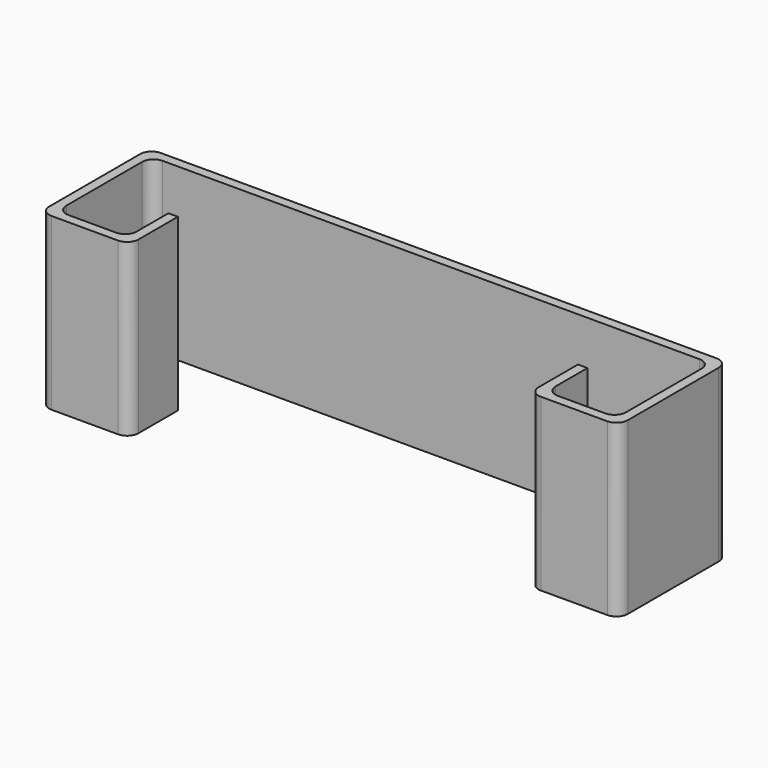
from build123d import *

# Parameters (mm, degrees)
F1_DEPTH = 19.05


with BuildPart() as f1:
    # F0 (on Top) → F1 (new body)
    with BuildSketch(Plane.XY):
        with BuildLine():
            ThreePointArc((0, 1.27), (0.371974, 0.371974), (1.27, 0))
            Line((1.27, 0), (8.693363, 0))
            ThreePointArc((8.693363, 0), (9.591389, 0.371974), (9.963363, 1.27))
            Line((9.963363, 1.27), (9.963363, 6.772581))
            Line((9.963363, 6.772581), (8.90503, 6.772581))
            Line((8.90503, 6.772581), (8.90503, 2.328333))
            ThreePointArc((8.90503, 2.328333), (8.533056, 1.430308), (7.63503, 1.058333))
            Line((7.63503, 1.058333), (2.328333, 1.058333))
            ThreePointArc((2.328333, 1.058333), (1.430308, 1.430308), (1.058333, 2.328333))
            Line((1.058333, 2.328333), (1.058333, 12.911667))
            ThreePointArc((1.058333, 12.911667), (1.430308, 13.809692), (2.328333, 14.181667))
            Line((2.328333, 14.181667), (32.300333, 14.181667))
            Line((32.300333, 14.181667), (32.300333, 15.24))
            Line((32.300333, 15.24), (1.27, 15.24))
            ThreePointArc((1.27, 15.24), (0.371974, 14.868026), (0, 13.97))
            Line((0, 13.97), (0, 1.27))
        make_face()
    extrude(amount=F1_DEPTH)

    # F2: F1 across face


with BuildPart() as f1_1:
    add(f1.part)
    add(f1.part.mirror(Plane(origin=(32.300333, 14.710833, 9.525), x_dir=(0, 1, 0), z_dir=(1, 0, 0))))


solid = f1_1.part
